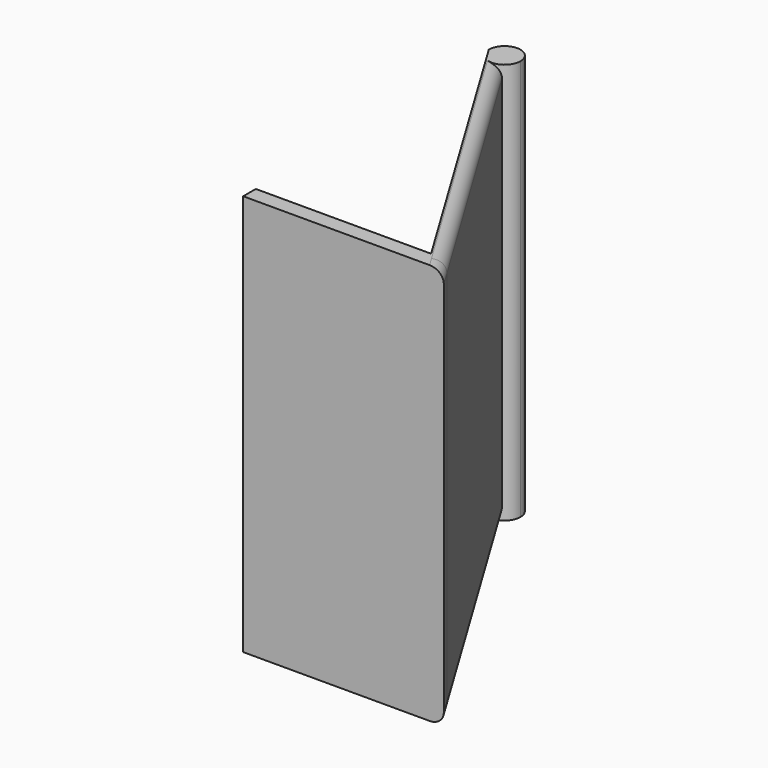
from build123d import *

# Parameters (mm, degrees)
F1_DEPTH = 66
F2_R     = 2


with BuildPart() as f1:
    # F0 (on Top) → F1 (new body)
    with BuildSketch(Plane.XY):
        with BuildLine():
            Line((-4.1758986024, 2.6), (-1.5758986024, 2.6))
            Line((-1.5758986024, 2.6), (-29.9018225579, 49.3335919775))
            ThreePointArc((-29.9018225579, 49.3335919775), (-31.1664206107, 48.9583804101), (-32.452401675, 49.252054818))
            Line((-32.452401675, 49.252054818), (-4.1758986024, 2.6))
        make_face()
        with BuildLine():
            Line((-31.2494952232, 51.5570528805), (-29.9018225579, 49.3335919775))
            ThreePointArc((-29.9018225579, 49.3335919775), (-28.9841090608, 50.2811118415), (-28.6494952232, 51.5570528805))
            ThreePointArc((-28.6494952232, 51.5570528805), (-31.2494952232, 54.1570528805), (-33.8494952232, 51.5570528805))
            Line((-33.8494952232, 51.5570528805), (-31.2494952232, 51.5570528805))
        make_face()
        with BuildLine():
            ThreePointArc((-32.452401675, 49.252054818), (-31.1664206107, 48.9583804101), (-29.9018225579, 49.3335919775))
            Line((-29.9018225579, 49.3335919775), (-31.2494952232, 51.5570528805))
            Line((-31.2494952232, 51.5570528805), (-33.8494952232, 51.5570528805))
            Line((-33.8494952232, 51.5570528805), (-32.452401675, 49.252054818))
        make_face()
        Polygon((-33, 0), (0, 0), (-1.5758986024, 2.6), (-4.1758986024, 2.6), (-33, 2.6), align=None)
    extrude(amount=F1_DEPTH)

    # F2
    f2_edges = [f1.edges().sort_by_distance(p)[0] for p in [
        (-14.950911, 24.666796, 66),
        (-14.950911, 24.666796, 0),
    ]]
    fillet(f2_edges, radius=F2_R)


solid = f1.part
